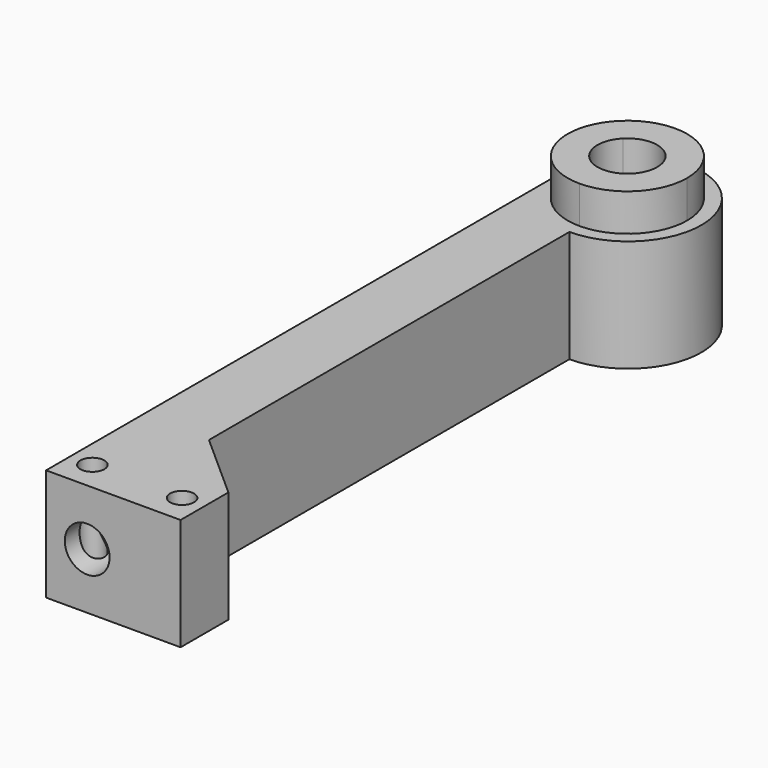
from build123d import *

# Parameters (mm, degrees)
F1_DEPTH = 20
F0_R     = 1.6
F2_DEPTH = 15
F4_R     = 3
F5_DEPTH = 85


with BuildPart() as f1:
    # F0 (on Top) → F1 (new body)
    with BuildSketch(Plane.XY):
        with BuildLine():
            Line((9, 82), (9, 78))
            ThreePointArc((9, 78), (14.6568542495, 80.3431457505), (17, 86))
            ThreePointArc((17, 86), (5.9385325411, 93.3910362601), (3.3431457505, 80.3431457505))
            Line((3.3431457505, 80.3431457505), (6.1715728753, 83.1715728753))
            ThreePointArc((6.1715728753, 83.1715728753), (5, 86), (6.1715728753, 88.8284271247))
            ThreePointArc((6.1715728753, 88.8284271247), (10.5307337295, 89.69551813), (13, 86))
            ThreePointArc((13, 86), (12.69551813, 84.4692662705), (11.8284271247, 83.1715728753))
            ThreePointArc((11.8284271247, 83.1715728753), (10.5307337295, 82.30448187), (9, 82))
        make_face()
        with BuildLine():
            ThreePointArc((3.3431457505, 80.3431457505), (5.9385325411, 78.6089637399), (9, 78))
            Line((9, 78), (9, 82))
            ThreePointArc((9, 82), (7.4692662705, 82.30448187), (6.1715728753, 83.1715728753))
            Line((6.1715728753, 83.1715728753), (3.3431457505, 80.3431457505))
        make_face()
    extrude(amount=F1_DEPTH)

    # F0 (on Top) → F2 (join)
    with BuildSketch(Plane.XY):
        with BuildLine():
            ThreePointArc((9, 76.3), (17.2071692051, 91.4977753902), (0, 90))
            Line((0, 90), (0, 0))
            Line((0, 0), (18, 0))
            Line((18, 0), (18, 8))
            Line((18, 8), (9, 16))
            Line((9, 16), (9, 46))
            Line((9, 46), (9, 76.3))
        make_face()
        with Locations((3, 4)):
            Circle(F0_R, mode=Mode.SUBTRACT)
        with BuildLine():
            ThreePointArc((16.6, 4), (15, 2.4), (13.4, 4))
            ThreePointArc((13.4, 4), (15, 5.6), (16.6, 4))
        make_face(mode=Mode.SUBTRACT)
        with BuildLine():
            ThreePointArc((17, 86), (14.6568542495, 80.3431457505), (9, 78))
            ThreePointArc((9, 78), (5.9385325411, 78.6089637399), (3.3431457505, 80.3431457505))
            ThreePointArc((3.3431457505, 80.3431457505), (5.9385325411, 93.3910362601), (17, 86))
        make_face(mode=Mode.SUBTRACT)
    extrude(amount=F2_DEPTH)

    # F4 (on face) → F5 (cut)
    with BuildSketch(Plane.XZ):
        with Locations((5.5, 7.5)):
            Circle(F4_R)
    extrude(amount=-F5_DEPTH, mode=Mode.SUBTRACT)


solid = f1.part
